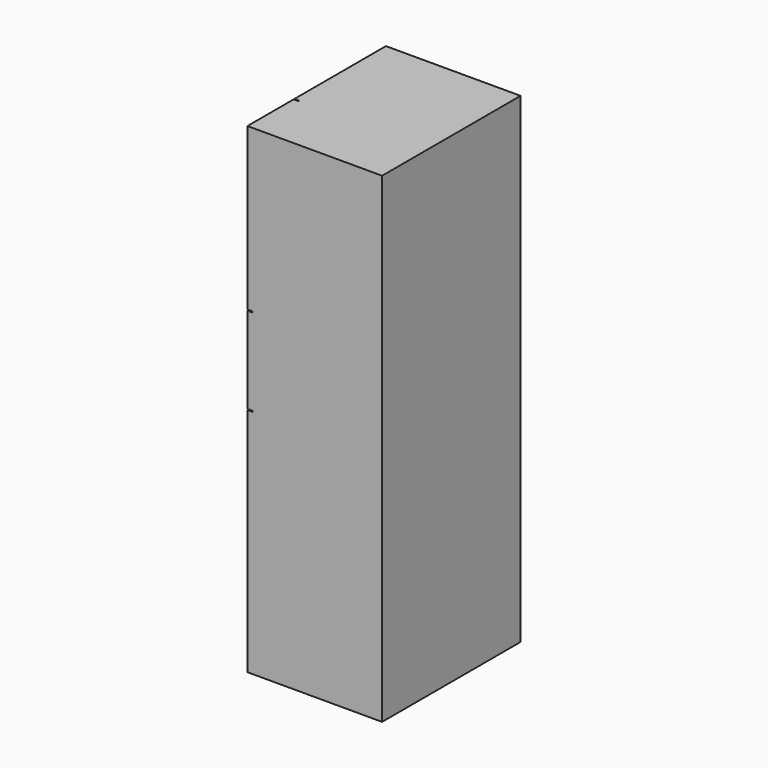
from build123d import *

# Parameters (mm, degrees)
F0_W     = 700
F0_H     = 900
F1_DEPTH = 2500
F2_W     = 5
F2_H     = 840
F2_W_2   = 595
F2_H_2   = 5
F2_W_3   = 300
F3_DEPTH = 25


with BuildPart() as f1:
    # F0 (on Top) → F1 (new body)
    with BuildSketch(Plane.XY):
        with Locations((350, 450)):
            Rectangle(F0_W, F0_H)
    extrude(amount=F1_DEPTH)

    # F2 (on Right) → F3 (cut)
    with BuildSketch(Plane.YZ):
        with Locations((302.5, 2080)):
            Rectangle(F2_W, F2_H)
        with Locations((602.5, 1657.5)):
            Rectangle(F2_W_2, F2_H_2)
        with Locations((302.5, 1657.5)):
            Rectangle(F2_W, F2_H_2)
        with Locations((150, 1657.5)):
            Rectangle(F2_W_3, F2_H_2)
        Polygon((305, 1205), (305, 1655), (300, 1655), (300, 1205), (300, 1200), (300, 0), (305, 0), (305, 1200), align=None)
        with Locations((602.5, 1202.5)):
            Rectangle(F2_W_2, F2_H_2)
        with Locations((150, 1202.5)):
            Rectangle(F2_W_3, F2_H_2)
    extrude(amount=F3_DEPTH, mode=Mode.SUBTRACT)


solid = f1.part
